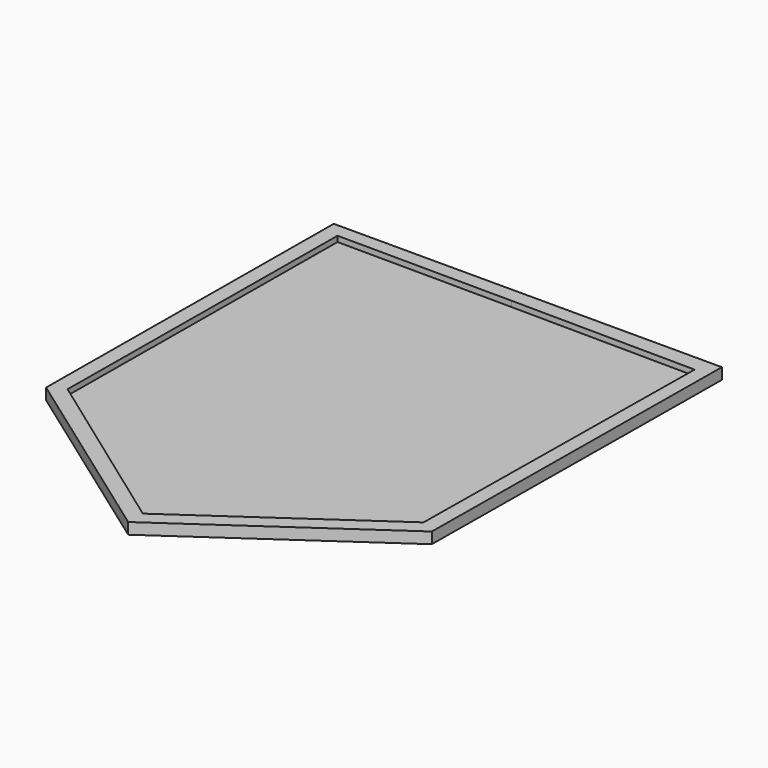
from build123d import *

# Parameters (mm, degrees)
F1_DEPTH = 1.5875
F2_DEPTH = 3.175


with BuildPart() as f1:
    # F0 (on Top) → F1 (new body)
    with BuildSketch(Plane.XY):
        Polygon((-50.365157, -33.811379), (0, -70.051394), (51.246492, -34.449623), (52.373465, 60.421776), (0, 60.891107), (-49.661492, 61.168756), align=None)
        Polygon((-50.365157, -33.811379), (0, -70.051394), (51.246492, -34.449623), (52.373465, 60.421776), (0, 60.891107), (-49.661492, 61.168756), align=None)
    extrude(amount=F1_DEPTH)

    # F0 (on Top) → F2 (join)
    with BuildSketch(Plane.XY):
        Polygon((56.362756, 65.115057), (0, 65.115057), (-53.885117, 65.115057), (-54.589108, -36.158018), (0, -75.233128), (55.424094, -36.729109), align=None)
        Polygon((51.246492, -34.449623), (0, -70.051394), (-50.365157, -33.811379), (-49.661492, 61.168756), (0, 60.891107), (52.373465, 60.421776), align=None, mode=Mode.SUBTRACT)
    extrude(amount=F2_DEPTH)


solid = f1.part
